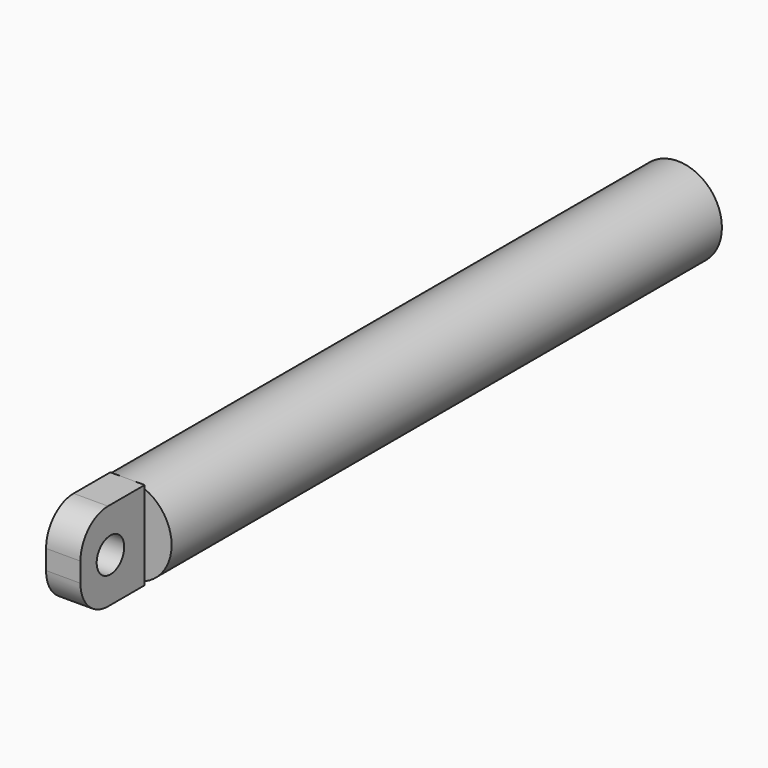
from build123d import *

# Parameters (mm, degrees)
F0_R     = 38.5
F1_DEPTH = 600
F2_W     = 30
F2_H     = 77
F3_DEPTH = 70
F4_R     = 15
F5_DEPTH = 53.501
F6_R     = 30
F7_R     = 15
F8_DEPTH = 550


with BuildPart() as f1:
    # F0 (on Front) → F1 (new body)
    with BuildSketch(Plane.XZ):
        Circle(F0_R)
    extrude(amount=-F1_DEPTH)

    # F2 (on face) → F3 (join)
    with BuildSketch(Plane.XZ):
        Rectangle(F2_W, F2_H)
    extrude(amount=F3_DEPTH)

    # F4 (on face) → F5 (cut, through all)
    with BuildSketch(Plane.YZ.offset(15)):
        with Locations((-37.336115, 0)):
            Circle(F4_R)
    extrude(amount=-F5_DEPTH, mode=Mode.SUBTRACT)

    # F6
    f6_edges = [f1.edges().sort_by_distance(p)[0] for p in [
        (0, -70, 38.5),
        (0, -70, -38.5),
    ]]
    fillet(f6_edges, radius=F6_R)

    # F7 (on face) → F8 (cut)
    with BuildSketch(Plane(origin=(0, 600, 0), x_dir=(-1, 0, 0), z_dir=(0, 1, 0))):
        Circle(F7_R)
    extrude(amount=-F8_DEPTH, mode=Mode.SUBTRACT)


solid = f1.part
